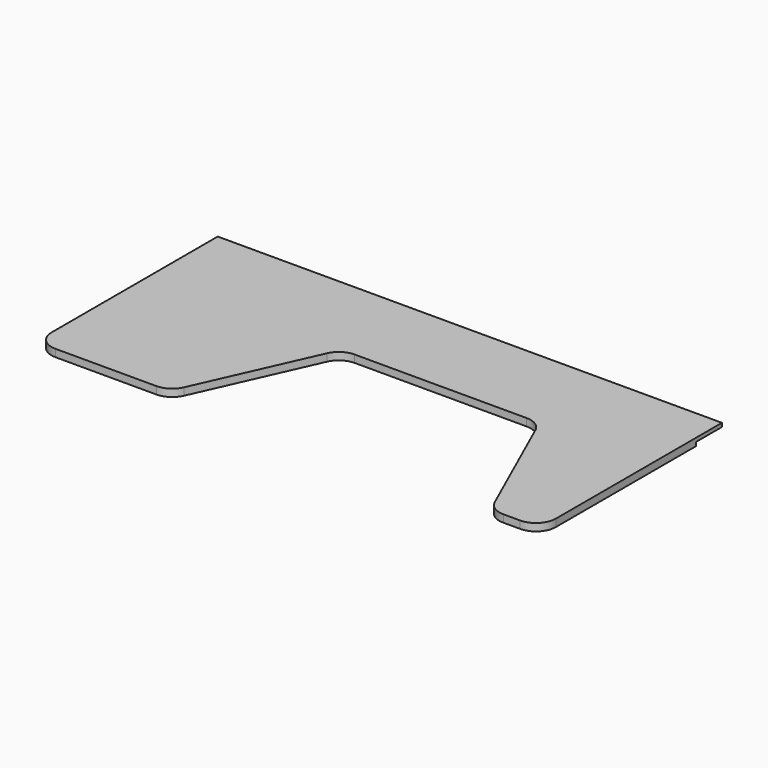
from build123d import *

# Parameters (mm, degrees)
F0_W     = 1295.4
F0_H     = 584.2
F1_DEPTH = 19.05
F3_DEPTH = 25.4
F4_R     = 50.8
F5_W     = 82.55
F5_H     = 9.525
F6_DEPTH = 1295.401


with BuildPart() as f1:
    # F0 (on Top) → F1 (new body)
    with BuildSketch(Plane.XY):
        Rectangle(F0_W, F0_H)
    extrude(amount=F1_DEPTH)

    # F2 (on face) → F3 (cut)
    with BuildSketch(Plane.XY.offset(19.05)):
        with BuildLine():
            Line((-159.4836327272, 33.408662691), (-304.8, -292.1))
            Line((-304.8, -292.1), (520.7, -292.1))
            Line((520.7, -292.1), (375.3836327272, 33.408662691))
            ThreePointArc((375.3836327272, 33.408662691), (356.6425656273, 55.3183063055), (328.9962282994, 63.5))
            Line((328.9962282994, 63.5), (-113.0962282994, 63.5))
            ThreePointArc((-113.0962282994, 63.5), (-140.7425656273, 55.3183063055), (-159.4836327272, 33.408662691))
        make_face()
    extrude(amount=-F3_DEPTH, mode=Mode.SUBTRACT)

    # F4
    f4_edges = [f1.edges().sort_by_distance(p)[0] for p in [
        (-304.8, -292.1, 9.525),
        (520.7, -292.1, 9.525),
        (647.7, -292.1, 9.525),
        (-647.7, -292.1, 9.525),
    ]]
    fillet(f4_edges, radius=F4_R)

    # F5 (on face) → F6 (cut, through all)
    with BuildSketch(Plane.YZ.offset(647.7)):
        with Locations((250.825, 4.7625)):
            Rectangle(F5_W, F5_H)
    extrude(amount=-F6_DEPTH, mode=Mode.SUBTRACT)


solid = f1.part
